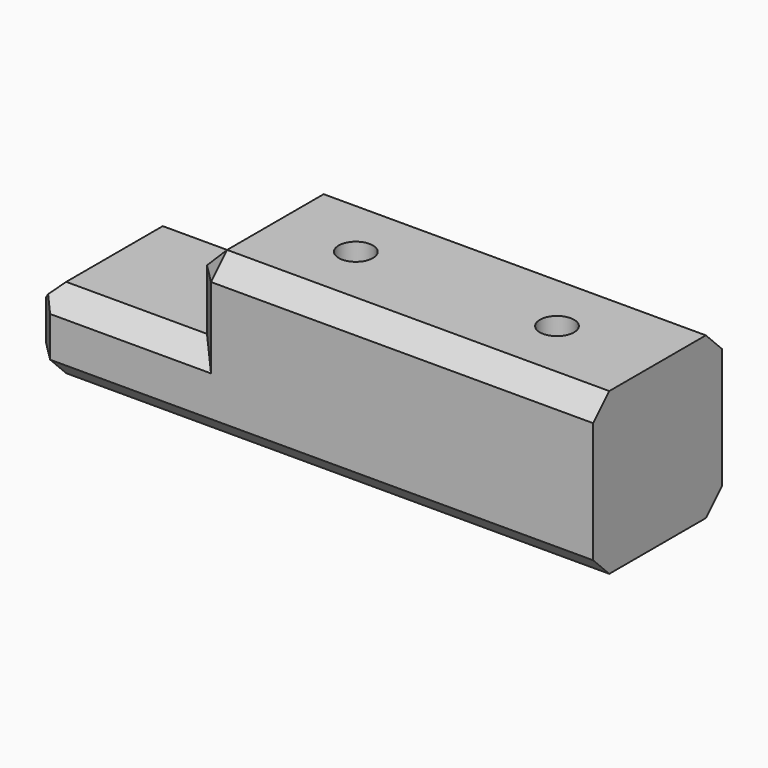
from build123d import *

# Parameters (mm, degrees)
F1_DEPTH = 40
F2_SIZE  = 5
F4_D     = 8.5
F6_D     = 8.5
F7_SIZE  = 5
F8_SIZE  = 5


with BuildPart() as f1:
    # F0 (on Front) → F1 (new body)
    with BuildSketch(Plane.XZ):
        Polygon((0, 20), (0, 0), (140, 0), (140, 40), (40, 40), (40, 20), align=None)
    extrude(amount=F1_DEPTH)

    # F2
    f2_edges = [f1.edges().sort_by_distance(p)[0] for p in [
        (40, -20, 40),
        (40, -40, 30),
        (40, 0, 30),
        (0, -20, 20),
        (0, -40, 10),
        (0, -20, 0),
        (0, 0, 10),
        (90, -40, 40),
        (70, -40, 0),
        (90, 0, 40),
        (70, 0, 0),
    ]]
    chamfer(f2_edges, length=F2_SIZE)

    # F4 (through all)
    with Locations(Plane(origin=(0, 0, 0), x_dir=(1, 0, 0), z_dir=(0, 0, -1))):
        with Locations((115, 20)):
            Hole(F4_D / 2)

    # F6 (through all)
    with Locations(Plane(origin=(0, 0, 0), x_dir=(1, 0, 0), z_dir=(0, 0, -1))):
        with Locations((65, 20)):
            Hole(F6_D / 2)

    # F7
    f7_edges = [f1.edges().sort_by_distance(p)[0] for p in [
        (25, 0, 20),
    ]]
    chamfer(f7_edges, length=F7_SIZE)

    # F8
    f8_edges = [f1.edges().sort_by_distance(p)[0] for p in [
        (25, -40, 20),
    ]]
    chamfer(f8_edges, length=F8_SIZE)


solid = f1.part
